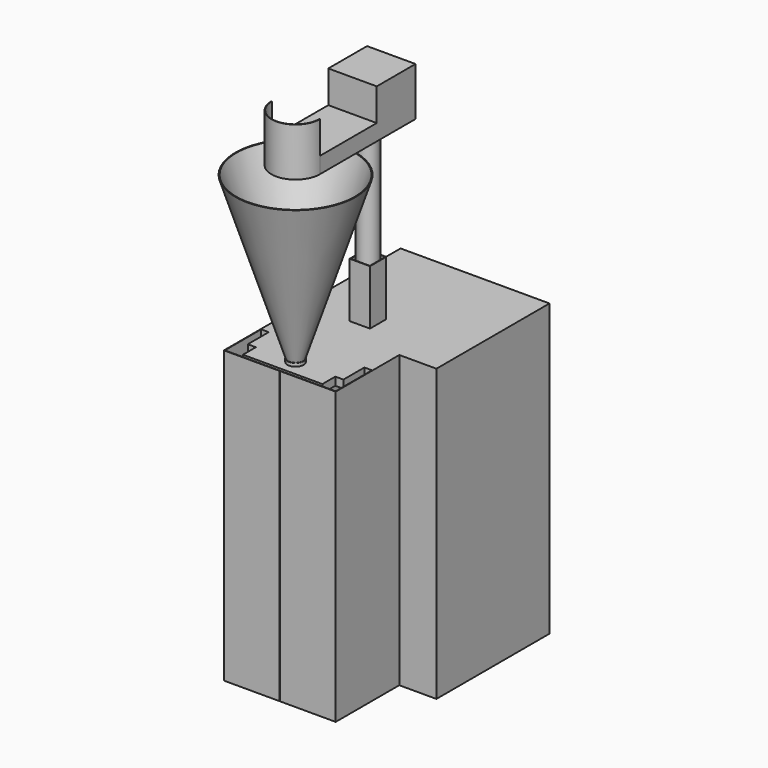
from build123d import *

# Parameters (mm, degrees)
F0_W           = 692
F0_H           = 470
F1_DEPTH       = 1800
F3_DEPTH       = 1800
F4_W           = 592
F4_H           = 1750
F5_DEPTH       = 1235
F6_W           = 120
F6_H           = 120
F7_DEPTH       = 50
F8_W           = 126
F8_H           = 126
F8_W_2         = 120
F8_H_2         = 120
F9_DEPTH       = 340
F10_R          = 60
F10_R_2        = 57
F11_DEPTH      = 731.52
F11_DEPTH_BACK = 340
F12_W          = 492
F12_H          = 50
F13_DEPTH      = 100
F14_R          = 50
F15_DEPTH      = 50
F16_R          = 50
F16_R_2        = 47
F17_DEPTH      = 1051.56
F17_DEPTH_BACK = 20
F18_W          = 50
F18_H          = 50
F19_DEPTH      = 10
F20_W          = 50
F20_H          = 50
F21_DEPTH      = 10
F22_W          = 500
F22_H          = 100
F23_DEPTH      = 5
F24_W          = 500
F24_H          = 100
F25_DEPTH      = 5
F26_W          = 592
F26_H          = 100
F27_DEPTH      = 5
F28_R          = 12.5
F29_DEPTH      = 150
F31_DEPTH      = 3
F33_R          = 372.5
F34_DEPTH      = 1000
F34_TAPER      = 18
F35_R          = 367.5
F36_DEPTH      = 1002.284
F36_TAPER      = 20
F37_R          = 47
F38_DEPTH      = 46.99
F40_DEPTH      = 100
F41_W          = 300
F41_H          = 300
F42_DEPTH      = 200
F44_DEPTH      = 200
F46_W          = 3
F46_H          = 1800
F45_W          = 3
F45_H          = 1800
F47_DEPTH      = 284.48
F48_W          = 3
F48_H          = 1800
F49_DEPTH      = 340.36
F50_W          = 3
F50_H          = 1800
F51_DEPTH      = 340.36


with BuildPart() as f1:
    # F0 (on Top) → F1 (new body)
    with BuildSketch(Plane.XY):
        Polygon((-461, -202.5), (231, -202.5), (461, -202.5), (461, 672.5), (-461, 672.5), align=None)
        with Locations((-115, -437.5)):
            Rectangle(F0_W, F0_H)
    extrude(amount=-F1_DEPTH)

    # F2 (on face) → F3 (cut, through all)
    with BuildSketch(Plane.XY):
        Polygon((-411, -409.9026024342), (-461, -409.9026024342), (-461, -672.5), (231, -672.5), (231, -409.9026024342), (181, -409.9026024342), (181, -572.5), (-411, -572.5), align=None)
    extrude(amount=-F3_DEPTH, mode=Mode.SUBTRACT)

    # F4 (on face) → F5 (cut)
    with BuildSketch(Plane.XZ.offset(572.5)):
        with Locations((-115, -925)):
            Rectangle(F4_W, F4_H)
    extrude(amount=-F5_DEPTH, mode=Mode.SUBTRACT)

    # F6 (on face) → F7 (cut, through all)
    with BuildSketch(Plane.XY):
        with Locations((-115, -12.5)):
            Rectangle(F6_W, F6_H)
    extrude(amount=-F7_DEPTH, mode=Mode.SUBTRACT)

    # F8 (on face) → F9 (join)
    with BuildSketch(Plane.XY):
        with Locations((-115, -12.5)):
            Rectangle(F8_W, F8_H)
        with Locations((-115, -12.5)):
            Rectangle(F8_W_2, F8_H_2, mode=Mode.SUBTRACT)
    extrude(amount=F9_DEPTH)

    # F12 (on face) → F13 (join)
    with BuildSketch(Plane.XZ.offset(572.5)):
        with Locations((-115, -25)):
            Rectangle(F12_W, F12_H)
    extrude(amount=F13_DEPTH)

    # F14 (on face) → F15 (cut, through all)
    with BuildSketch(Plane.XY):
        with Locations((-115, -572.5)):
            Circle(F14_R)
    extrude(amount=-F15_DEPTH, mode=Mode.SUBTRACT)

    # F16 (on face) → F17 (join, two sides)
    with BuildSketch(Plane.XY) as f17_sk:
        with Locations((-115, -572.5)):
            Circle(F16_R)
        with Locations((-115, -572.5)):
            Circle(F16_R_2, mode=Mode.SUBTRACT)
    extrude(amount=-F17_DEPTH)
    extrude(f17_sk.sketch, amount=F17_DEPTH_BACK)

    # F18 (on face) → F19 (join)
    with BuildSketch(Plane.YZ.offset(-411)):
        with Locations((-384.9026024342, -175)):
            Rectangle(F18_W, F18_H)
    extrude(amount=F19_DEPTH)

    # F20 (on face) → F21 (join)
    with BuildSketch(Plane(origin=(181, 0, 0), x_dir=(0, -1, 0), z_dir=(-1, 0, 0))):
        with Locations((384.9026024342, -175)):
            Rectangle(F20_W, F20_H)
    extrude(amount=F21_DEPTH)

    # F22 (on face) → F23 (join)
    with BuildSketch(Plane.YZ.offset(-401)):
        with Locations((-159.9026024342, -150)):
            Rectangle(F22_W, F22_H)
    extrude(amount=F23_DEPTH)

    # F24 (on face) → F25 (join)
    with BuildSketch(Plane(origin=(171, 0, 0), x_dir=(0, -1, 0), z_dir=(-1, 0, 0))):
        with Locations((159.9026024342, -150)):
            Rectangle(F24_W, F24_H)
    extrude(amount=F25_DEPTH)

    # F28 (on face) → F29 (join)
    with BuildSketch(Plane(origin=(0, 0, -50), x_dir=(1, 0, 0), z_dir=(0, 0, -1))):
        with Locations((-328.5, 622.5)):
            Circle(F28_R)
        with Locations((98.5, 622.5)):
            Circle(F28_R)
    extrude(amount=F29_DEPTH)

    # F30 (on face) → F31 (join)
    with BuildSketch(Plane(origin=(0, 0, -200), x_dir=(1, 0, 0), z_dir=(0, 0, -1))):
        with BuildLine():
            Line((131, 672.5), (-361, 672.5))
            Line((-361, 672.5), (-361, 572.5))
            Line((-361, 572.5), (-165, 572.5))
            ThreePointArc((-165, 572.5), (-115, 622.5), (-65, 572.5))
            Line((-65, 572.5), (131, 572.5))
            Line((131, 572.5), (131, 672.5))
        make_face()
    extrude(amount=F31_DEPTH)

    # F33 (on offset) → F34 (join, through all)
    with BuildSketch(Plane.XY.offset(1020)):
        with Locations((-115, -572.5)):
            Circle(F33_R)
    extrude(amount=-F34_DEPTH, taper=F34_TAPER)

    # F35 (on face) → F36 (cut)
    with BuildSketch(Plane.XY.offset(1020)):
        with Locations((-115, -572.5)):
            Circle(F35_R)
    extrude(amount=-F36_DEPTH, taper=F36_TAPER, mode=Mode.SUBTRACT)

    # F37 (on face) → F38 (cut)
    with BuildSketch(Plane(origin=(0, 0, 20), x_dir=(1, 0, 0), z_dir=(0, 0, -1))):
        with Locations((-115, 572.5)):
            Circle(F37_R)
    extrude(amount=-F38_DEPTH, mode=Mode.SUBTRACT)

    # F46 (on face) + F45 (on face) → F47 (join)
    with BuildSketch(Plane.XZ.offset(409.9026024342)):
        with Locations((229.5, -900)):
            Rectangle(F46_W, F46_H)
    with BuildSketch(Plane.XZ.offset(409.9026024342)):
        with Locations((-459.5, -900)):
            Rectangle(F45_W, F45_H)
    extrude(amount=F47_DEPTH)

    # F48 (on face) → F49 (join)
    with BuildSketch(Plane.YZ.offset(-458)):
        with Locations((-692.8826024342, -900)):
            Rectangle(F48_W, F48_H)
    extrude(amount=F49_DEPTH)

    # F50 (on face) → F51 (join)
    with BuildSketch(Plane(origin=(228, 0, 0), x_dir=(0, -1, 0), z_dir=(-1, 0, 0))):
        with Locations((692.8826024342, -900)):
            Rectangle(F50_W, F50_H)
    extrude(amount=F51_DEPTH)


with BuildPart() as f11:
    # F10 (on face) → F11 (new body, two sides)
    with BuildSketch(Plane.XY.offset(340)) as f11_sk:
        with Locations((-115, -12.5)):
            Circle(F10_R)
        with Locations((-115, -12.5)):
            Circle(F10_R_2, mode=Mode.SUBTRACT)
    extrude(amount=F11_DEPTH)
    extrude(f11_sk.sketch, amount=-F11_DEPTH_BACK)

    # F39 (on face) → F40 (join)
    with BuildSketch(Plane.XY.offset(1071.52)):
        with BuildLine():
            Line((35, 168.2110980594), (-265, 168.2110980594))
            Line((-265, 168.2110980594), (-265, -231.7889019406))
            Line((-265, -231.7889019406), (-265, -572.5))
            ThreePointArc((-265, -572.5), (-115, -722.5), (35, -572.5))
            Line((35, -572.5), (35, -231.7889019406))
            Line((35, -231.7889019406), (35, 168.2110980594))
        make_face()
    extrude(amount=F40_DEPTH)

    # F41 (on face) → F42 (join)
    with BuildSketch(Plane.XY.offset(1171.52)):
        with Locations((-115, 18.2110980594)):
            Rectangle(F41_W, F41_H)
    extrude(amount=F42_DEPTH)

    # F43 (on face) → F44 (join)
    with BuildSketch(Plane.XY.offset(1171.52)):
        with BuildLine():
            Line((-262, -572.5), (-265, -572.5))
            ThreePointArc((-265, -572.5), (-115, -722.5), (35, -572.5))
            Line((35, -572.5), (32, -572.5))
            ThreePointArc((32, -572.5), (-115, -719.5), (-262, -572.5))
        make_face()
    extrude(amount=F44_DEPTH)


with BuildPart() as f27:
    # F26 (on face) → F27 (new body)
    with BuildSketch(Plane.XZ.offset(409.9026024342)):
        with Locations((-115, -450)):
            Rectangle(F26_W, F26_H)
    extrude(amount=F27_DEPTH)


solid = Compound([f1.part, f11.part, f27.part])
